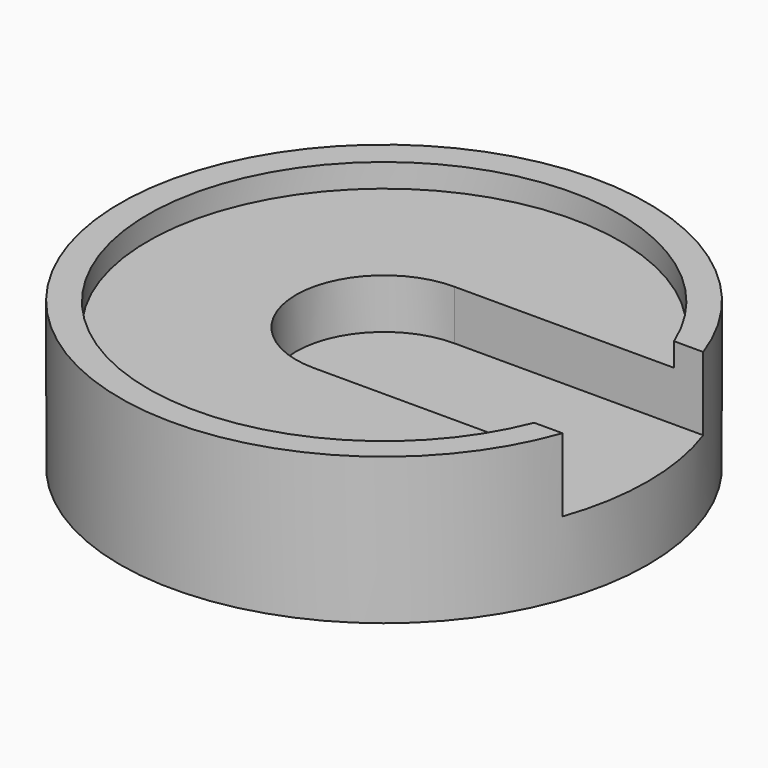
from build123d import *

# Parameters (mm, degrees)
SKETCH_R        = 18
PAD_DEPTH       = 10
SKETCH001_R     = 16.1
POCKET_DEPTH    = 1.6
POCKET001_DEPTH = 5
SKETCH004_R     = 3.5
POCKET002_DEPTH = 3.5


with BuildPart() as part:
    # Sketch → Pad (new body)
    with BuildSketch(Plane.XY):
        Circle(SKETCH_R)
    extrude(amount=PAD_DEPTH)

    # Sketch001 → Pocket (cut)
    with BuildSketch(Plane.XY.offset(10)):
        with Locations((0.069364, -0.076041)):
            Circle(SKETCH001_R)
    extrude(amount=-POCKET_DEPTH, mode=Mode.SUBTRACT)

    # Sketch003 → Pocket001 (cut)
    with BuildSketch(Plane.XY.offset(10)):
        with BuildLine():
            ThreePointArc((0, 6), (-6, 0), (0, -6))
            Line((0, -6), (30, -6))
            ThreePointArc((30, -6), (36, 0), (30, 6))
            Line((0, 6), (30, 6))
        make_face()
    extrude(amount=-POCKET001_DEPTH, mode=Mode.SUBTRACT)

    # Sketch004 → Pocket002 (cut)
    with BuildSketch(Plane(origin=(0, 0, 0), x_dir=(1, 0, 0), z_dir=(0, 0, -1))):
        Circle(SKETCH004_R)
    extrude(amount=-POCKET002_DEPTH, mode=Mode.SUBTRACT)


solid = part.part
